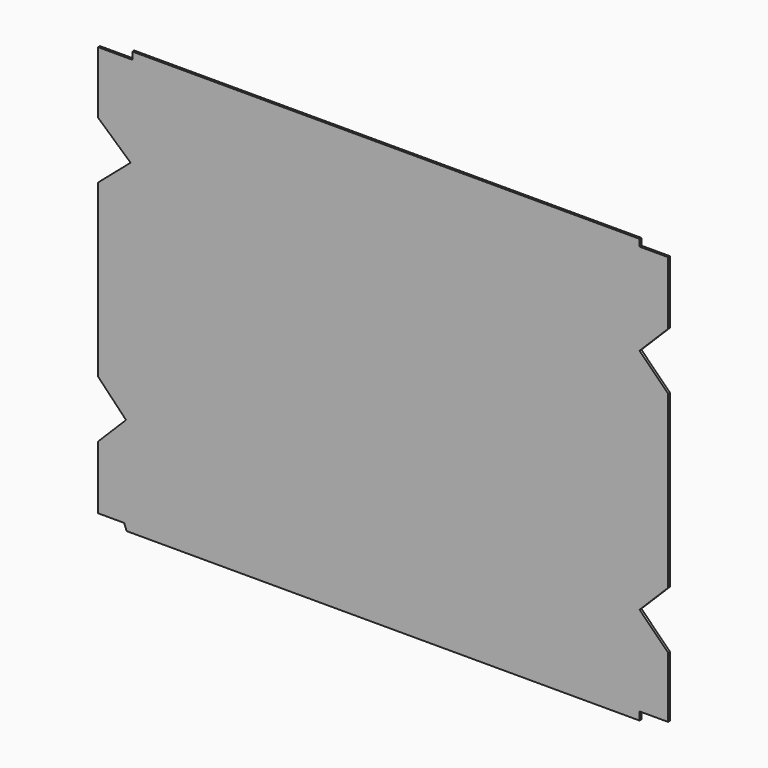
from build123d import *

# Parameters (mm, degrees)
F1_DEPTH = 2


with BuildPart() as f1:
    # F0 (on Front) → F1 (new body)
    with BuildSketch(Plane.XZ):
        Polygon((-227.4388505794, -181.1017769552), (222.5611494206, -181.1017769552), (222.5611494206, -180), (222.5611494206, -174), (222.5611494206, -95.4814543019), (-227.9457226594, -95.4814543019), (-228.4436108258, -120.4758763271), (-229.5393203537, -175.4814543019), align=None)
        Polygon((-252.4388505794, -175.4814543019), (-229.5393203537, -175.4814543019), (-228.4436108258, -120.4758763271), (-227.9457226594, -95.4814543019), (-252.4388505794, -119.9978918428), align=None)
        Polygon((222.5611494206, -95.4814543019), (222.5611494206, -174), (247.5611494206, -174), (247.5611494206, -120.4809747973), align=None)
        Polygon((-227.9457226594, -95.4814543019), (222.5611494206, -95.4814543019), (222.5611494206, 104.5185456981), (-223.9617284237, 104.5185456981), (-224.4604191271, 79.4838356114), (-227.447808376, -70.4857211787), align=None)
        Polygon((222.5611494206, 104.5185456981), (222.5611494206, -95.4814543019), (247.5611494206, -70.4814543019), (247.5611494206, 79.5190252027), align=None)
        Polygon((-252.4388505794, -69.9879003383), (-227.9457226594, -95.4814543019), (-227.447808376, -70.4857211787), (-224.4604191271, 79.4838356114), (-223.9617284237, 104.5185456981), (-252.4388505794, 80.0121985117), (-252.4388505794, -15.4814543019), align=None)
        Polygon((-223.9617284237, 104.5185456981), (222.5611494206, 104.5185456981), (222.5611494206, 184.8982230448), (222.5611494206, 190.8982230448), (-222.3681307294, 190.8982230448), (-222.3681307294, 184.5185456981), (-223.4646181181, 129.4739184314), align=None)
        Polygon((222.5611494206, 184.8982230448), (222.5611494206, 104.5185456981), (247.5611494206, 129.5180661935), (247.5611494206, 184.8982230448), align=None)
        Polygon((-252.4388505794, 130.0121985094), (-223.9617284237, 104.5185456981), (-223.4646181181, 129.4739184314), (-222.3681307294, 184.5185456981), (-252.4388505794, 184.5185456981), align=None)
    extrude(amount=F1_DEPTH)


solid = f1.part
